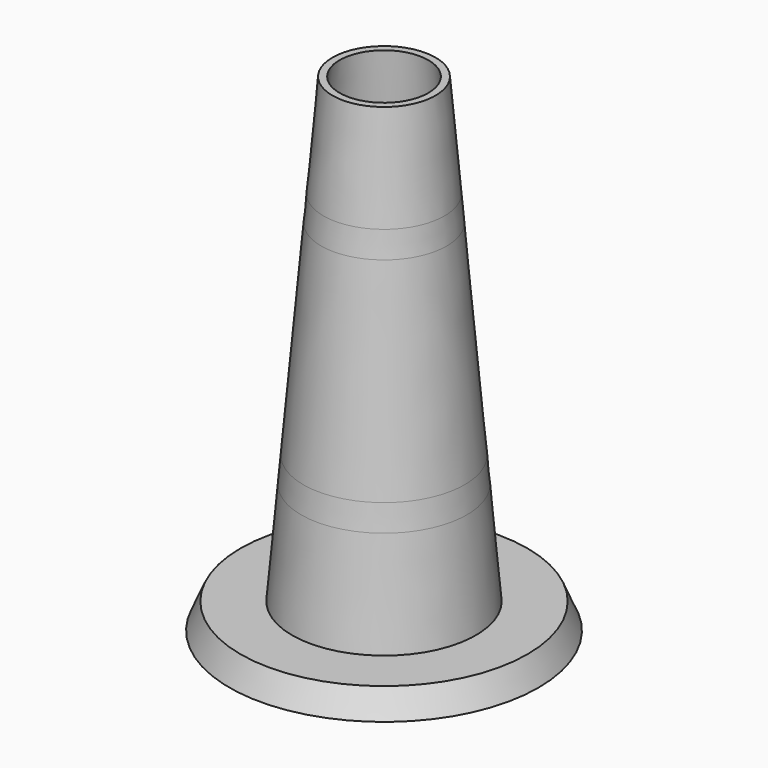
from build123d import *

# Parameters (mm, degrees)
F6_T     = -6.35
F7_R     = 75.9333
F8_DEPTH = 360.2112159675
F8_TAPER = 5.1


with BuildPart() as f1:
    # F0 (on Front) → F1 (revolve)
    with BuildSketch(Plane.XZ):
        Polygon((-141.4476055842, 25.4), (-152.4, 0), (0, 0), (0, 127), (-81.75875737, 127), (-90.6476055842, 25.4), align=None)
    revolve(axis=Axis((0, 0, 240.4301079838), (0, 0, -1)))

    # F6
    f6_openings = [f1.faces().sort_by_distance(p)[0] for p in [
        (0, 0, 0),
    ]]
    offset(amount=F6_T, openings=f6_openings, kind=Kind.INTERSECTION)


with BuildPart() as f2:
    # F0 (on Front) → F2 (revolve)
    with BuildSketch(Plane.XZ):
        Polygon((-81.75875737, 127), (0, 127), (0, 152.4), (-79.5365453164, 152.4), align=None)
    revolve(axis=Axis((0, 0, 240.4301079838), (0, 0, -1)))


with BuildPart() as f3:
    # F0 (on Front) → F3 (revolve)
    with BuildSketch(Plane.XZ):
        Polygon((-79.5365453164, 152.4), (0, 152.4), (0, 353.8602159675), (-61.9110602678, 353.8602159675), align=None)
    revolve(axis=Axis((0, 0, 240.4301079838), (0, 0, -1)))


with BuildPart() as f4:
    # F0 (on Front) → F4 (revolve)
    with BuildSketch(Plane.XZ):
        Polygon((-61.9110602678, 353.8602159675), (0, 353.8602159675), (0, 379.2602159675), (-59.6888482142, 379.2602159675), align=None)
    revolve(axis=Axis((0, 0, 240.4301079838), (0, 0, -1)))


with BuildPart() as f5:
    # F0 (on Front) → F5 (revolve)
    with BuildSketch(Plane.XZ):
        Polygon((-59.6888482142, 379.2602159675), (0, 379.2602159675), (0, 480.8602159675), (-50.8, 480.8602159675), align=None)
    revolve(axis=Axis((0, 0, 240.4301079838), (0, 0, -1)))


with BuildPart() as f8_tool:
    # F7 (on face) → F8 (new body, through all)
    with BuildSketch(Plane(origin=(0, 0, 120.65), x_dir=(1, 0, 0), z_dir=(0, 0, -1))):
        Circle(F7_R)
    extrude(amount=-F8_DEPTH, taper=F8_TAPER)


with BuildPart() as f1_1:
    add(f1.part)

    # F8: cut by f8_tool
    add(f8_tool.part, mode=Mode.SUBTRACT)


with BuildPart() as f2_1:
    add(f2.part)

    # F8: cut by f8_tool
    add(f8_tool.part, mode=Mode.SUBTRACT)


with BuildPart() as f3_1:
    add(f3.part)

    # F8: cut by f8_tool
    add(f8_tool.part, mode=Mode.SUBTRACT)


with BuildPart() as f4_1:
    add(f4.part)

    # F8: cut by f8_tool
    add(f8_tool.part, mode=Mode.SUBTRACT)


with BuildPart() as f5_1:
    add(f5.part)

    # F8: cut by f8_tool
    add(f8_tool.part, mode=Mode.SUBTRACT)


solid = Compound([f1_1.part, f2_1.part, f3_1.part, f4_1.part, f5_1.part])
